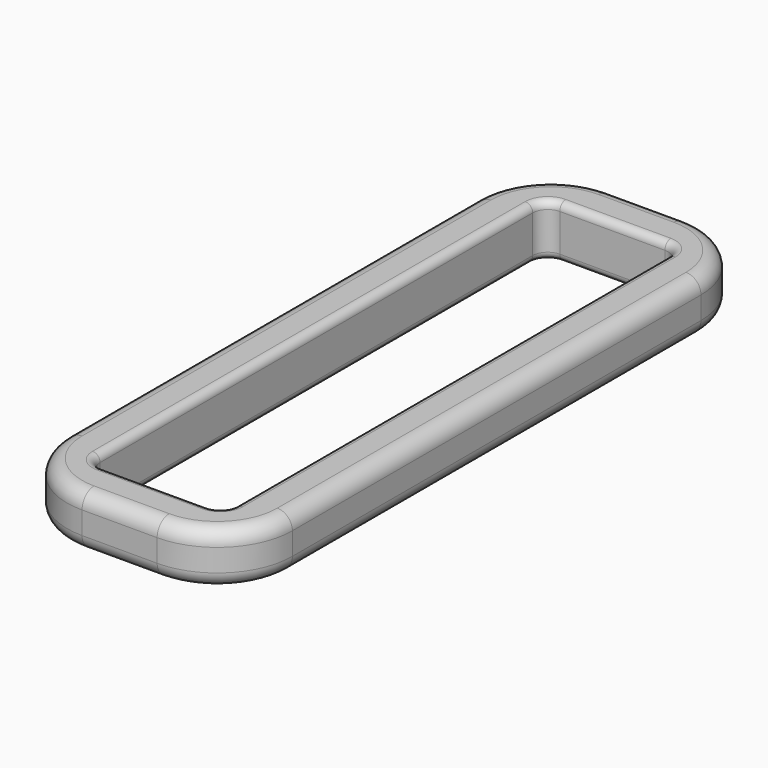
from build123d import *

# Parameters (mm, degrees)
F0_W     = 15
F0_H     = 44
F0_W_2   = 9
F0_H_2   = 38
F1_DEPTH = 3.5
F2_R     = 1
F3_R     = 5
F4_R     = 0.5
F5_R     = 1


with BuildPart() as f1:
    # F0 (on Top) → F1 (new body)
    with BuildSketch(Plane.XY):
        Rectangle(F0_W, F0_H)
        Rectangle(F0_W_2, F0_H_2, mode=Mode.SUBTRACT)
    extrude(amount=F1_DEPTH)

    # F2
    f2_edges = [f1.edges().sort_by_distance(p)[0] for p in [
        (4.5, 19, 1.75),
        (-4.5, 19, 1.75),
        (-4.5, -19, 1.75),
        (4.5, -19, 1.75),
    ]]
    fillet(f2_edges, radius=F2_R)

    # F3
    f3_edges = [f1.edges().sort_by_distance(p)[0] for p in [
        (-7.5, -22, 1.75),
        (7.5, -22, 1.75),
        (-7.5, 22, 1.75),
        (7.5, 22, 1.75),
    ]]
    fillet(f3_edges, radius=F3_R)

    # F4
    f4_edges = [f1.edges().sort_by_distance(p)[0] for p in [
        (0, 19, 0),
        (0, 19, 3.5),
    ]]
    fillet(f4_edges, radius=F4_R)

    # F5
    f5_edges = [f1.edges().sort_by_distance(p)[0] for p in [
        (0, -22, 3.5),
        (0, -22, 0),
    ]]
    fillet(f5_edges, radius=F5_R)


solid = f1.part
